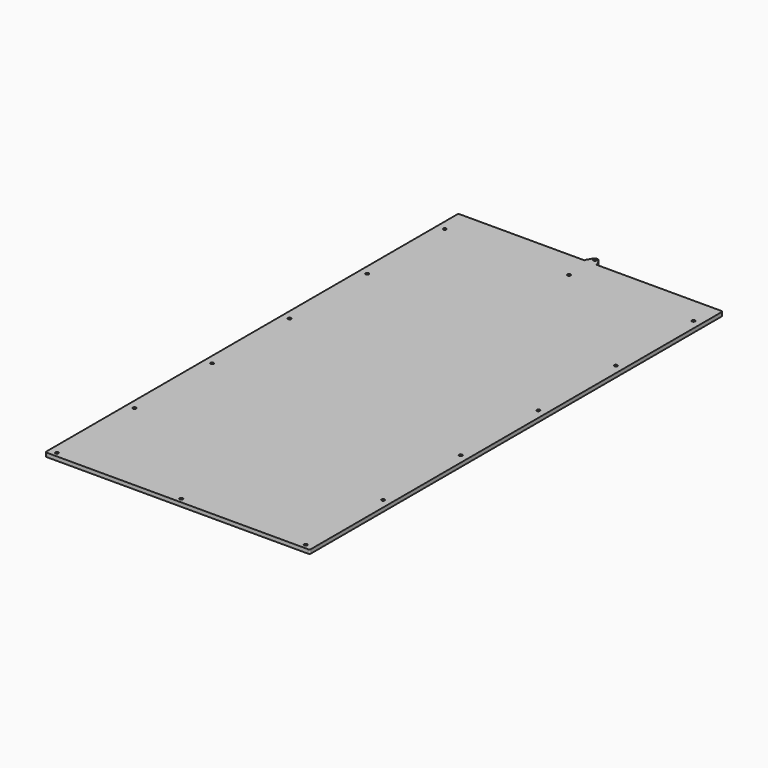
from build123d import *

# Parameters (mm, degrees)
F0_R     = 10
F1_DEPTH = 25


with BuildPart() as f1:
    # F0 (on Top) → F1 (new body)
    with BuildSketch(Plane.XY):
        with BuildLine():
            ThreePointArc((794.181817, 1993.667044), (791.252885, 2000.738112), (784.181817, 2003.667044))
            Line((784.181817, 2003.667044), (-4.818183, 2003.667044))
            ThreePointArc((-4.818183, 2003.667044), (-8.353717, 2005.13151), (-9.818183, 2008.667044))
            Line((-9.818183, 2008.667044), (-9.818183, 2011.010108))
            ThreePointArc((-9.818183, 2011.010108), (-10.153496, 2013.577953), (-11.136948, 2015.973592))
            Line((-11.136948, 2015.973592), (-28.455714, 2046.264469))
            ThreePointArc((-28.455714, 2046.264469), (-45.818183, 2056.337502), (-63.180652, 2046.264469))
            Line((-63.180652, 2046.264469), (-80.499417, 2015.973592))
            ThreePointArc((-80.499417, 2015.973592), (-81.48287, 2013.577953), (-81.818183, 2011.010108))
            Line((-81.818183, 2011.010108), (-81.818183, 2008.667044))
            ThreePointArc((-81.818183, 2008.667044), (-83.282649, 2005.13151), (-86.818183, 2003.667044))
            Line((-86.818183, 2003.667044), (-875.818183, 2003.667044))
            ThreePointArc((-875.818183, 2003.667044), (-882.88925, 2000.738112), (-885.818183, 1993.667044))
            Line((-885.818183, 1993.667044), (-885.818183, -1266.332956))
            ThreePointArc((-885.818183, -1266.332956), (-882.88925, -1273.404024), (-875.818183, -1276.332956))
            Line((-875.818183, -1276.332956), (784.181817, -1276.332956))
            ThreePointArc((784.181817, -1276.332956), (791.252885, -1273.404024), (794.181817, -1266.332956))
            Line((794.181817, -1266.332956), (794.181817, 1993.667044))
        make_face()
        with Locations((-835.818183, -1246.332956)):
            Circle(F0_R, mode=Mode.SUBTRACT)
        with Locations((-835.818183, -630.332956)):
            Circle(F0_R, mode=Mode.SUBTRACT)
        with Locations((-835.818183, -14.332956)):
            Circle(F0_R, mode=Mode.SUBTRACT)
        with Locations((-45.818183, -1246.332956)):
            Circle(F0_R, mode=Mode.SUBTRACT)
        with Locations((744.181817, -1246.332956)):
            Circle(F0_R, mode=Mode.SUBTRACT)
        with Locations((744.181817, -630.332956)):
            Circle(F0_R, mode=Mode.SUBTRACT)
        with Locations((744.181817, -14.332956)):
            Circle(F0_R, mode=Mode.SUBTRACT)
        with Locations((-835.818183, 601.667044)):
            Circle(F0_R, mode=Mode.SUBTRACT)
        with Locations((-835.818183, 1217.667044)):
            Circle(F0_R, mode=Mode.SUBTRACT)
        with Locations((-835.818183, 1833.667044)):
            Circle(F0_R, mode=Mode.SUBTRACT)
        with Locations((-45.818183, 1833.667044)):
            Circle(F0_R, mode=Mode.SUBTRACT)
        with Locations((-45.818183, 2039.667044)):
            Circle(F0_R, mode=Mode.SUBTRACT)
        with Locations((744.181817, 601.667044)):
            Circle(F0_R, mode=Mode.SUBTRACT)
        with Locations((744.181817, 1217.667044)):
            Circle(F0_R, mode=Mode.SUBTRACT)
        with Locations((744.181817, 1833.667044)):
            Circle(F0_R, mode=Mode.SUBTRACT)
    extrude(amount=F1_DEPTH)


solid = f1.part
